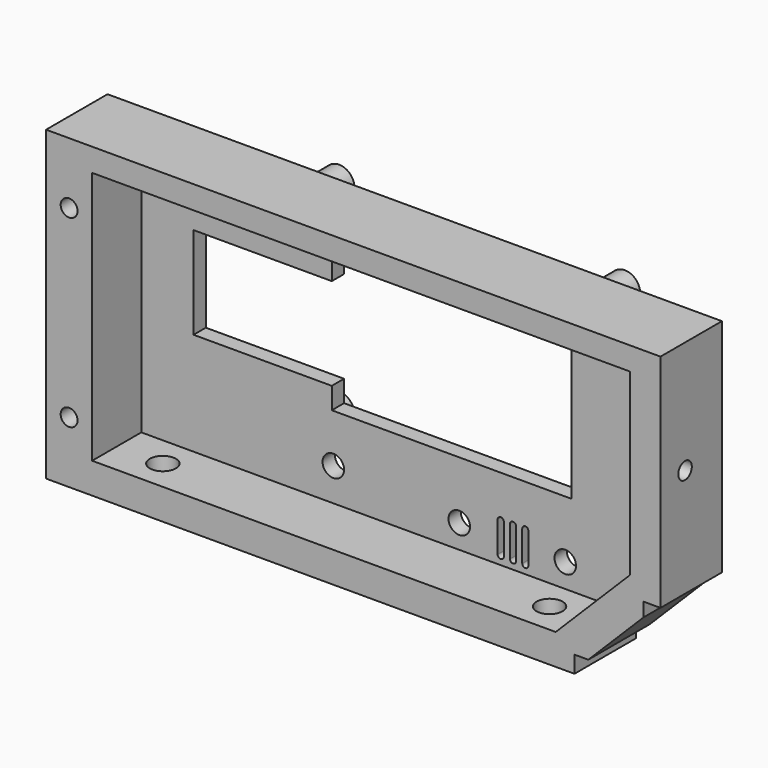
from build123d import *

# Parameters (mm, degrees)
F1_DEPTH  = 25
F3_DEPTH  = 20
F4_R      = 3.5
F5_DEPTH  = 5
F6_R      = 5
F6_R_2    = 1.4
F7_DEPTH  = 8
F8_R      = 2.75
F9_DEPTH  = 10
F10_R     = 4.25
F11_DEPTH = 5
F12_R     = 2.75
F13_DEPTH = 10
F14_R     = 4.25
F15_DEPTH = 5
F16_R     = 2.75
F17_DEPTH = 25


with BuildPart() as f1:
    # F0 (on Front) → F1 (new body)
    with BuildSketch(Plane.XZ):
        Polygon((200, 0), (0, 0), (0, -100), (172, -100), (172, -94.5), (176.5, -94.5), (194.5, -76.5), (194.5, -72), (200, -72), align=None)
    extrude(amount=F1_DEPTH)

    # F2 (on face) → F3 (cut)
    with BuildSketch(Plane.XZ.offset(25)):
        Polygon((190, -7.5), (15, -7.5), (15, -90), (165.893398, -90), (190, -65.893398), align=None)
    extrude(amount=-F3_DEPTH, mode=Mode.SUBTRACT)

    # F4 (on face) → F5 (cut, through all)
    with BuildSketch(Plane.XZ.offset(5)):
        Polygon((155, -12.5), (77, -12.5), (77, -26.5), (32, -26.5), (32, -56.5), (77, -56.5), (77, -63.5), (155, -63.5), align=None)
        with Locations((153, -82.25)):
            Circle(F4_R)
        with Locations((118.5, -82.25)):
            Circle(F4_R)
        with BuildLine():
            Line((133, -82.25), (133, -77.25))
            ThreePointArc((133, -77.25), (132, -76.25), (131, -77.25))
            Line((131, -77.25), (131, -82.25))
            Line((131, -82.25), (131, -87.25))
            ThreePointArc((131, -87.25), (132, -88.25), (133, -87.25))
            Line((133, -87.25), (133, -82.25))
        make_face()
        with BuildLine():
            ThreePointArc((137, -77.25), (136, -76.25), (135, -77.25))
            Line((135, -77.25), (135, -82.25))
            Line((135, -82.25), (135, -87.25))
            ThreePointArc((135, -87.25), (136, -88.25), (137, -87.25))
            Line((137, -87.25), (137, -82.25))
            Line((137, -82.25), (137, -77.25))
        make_face()
        with BuildLine():
            ThreePointArc((141, -77.25), (140, -76.25), (139, -77.25))
            Line((139, -77.25), (139, -82.25))
            Line((139, -82.25), (139, -87.25))
            ThreePointArc((139, -87.25), (140, -88.25), (141, -87.25))
            Line((141, -87.25), (141, -82.25))
            Line((141, -82.25), (141, -77.25))
        make_face()
        with Locations((77.5, -79.25)):
            Circle(F4_R)
    extrude(amount=-F5_DEPTH, mode=Mode.SUBTRACT)

    # F6 (on face) → F7 (join)
    with BuildSketch(Plane(origin=(0, 0, 0), x_dir=(-1, 0, 0), z_dir=(0, 1, 0))):
        with Locations((-69, -6)):
            Circle(F6_R)
        with Locations((-69, -6)):
            Circle(F6_R_2, mode=Mode.SUBTRACT)
        with Locations((-162, -6)):
            Circle(F6_R)
        with Locations((-162, -6)):
            Circle(F6_R_2, mode=Mode.SUBTRACT)
        with Locations((-162, -71)):
            Circle(F6_R)
        with Locations((-162, -71)):
            Circle(F6_R_2, mode=Mode.SUBTRACT)
        with Locations((-69, -71)):
            Circle(F6_R)
        with Locations((-69, -71)):
            Circle(F6_R_2, mode=Mode.SUBTRACT)
    extrude(amount=F7_DEPTH)

    # F8 (on face) → F9 (cut, through all)
    with BuildSketch(Plane(origin=(190, 0, 0), x_dir=(0, -1, 0), z_dir=(-1, 0, 0))):
        with Locations((15, -36.696699)):
            Circle(F8_R)
    extrude(amount=-F9_DEPTH, mode=Mode.SUBTRACT)

    # F10 (on face) → F11 (cut)
    with BuildSketch(Plane(origin=(190, 0, 0), x_dir=(0, -1, 0), z_dir=(-1, 0, 0))):
        with Locations((15, -36.696699)):
            Circle(F10_R)
    extrude(amount=-F11_DEPTH, mode=Mode.SUBTRACT)

    # F12 (on face) → F13 (cut, through all)
    with BuildSketch(Plane.XY.offset(-90)):
        with Locations((30, -15)):
            Circle(F12_R)
        with Locations((155.893398, -15)):
            Circle(F12_R)
    extrude(amount=-F13_DEPTH, mode=Mode.SUBTRACT)

    # F14 (on face) → F15 (cut)
    with BuildSketch(Plane.XY.offset(-90)):
        with Locations((30, -15)):
            Circle(F14_R)
        with Locations((155.893398, -15)):
            Circle(F14_R)
    extrude(amount=-F15_DEPTH, mode=Mode.SUBTRACT)

    # F16 (on face) → F17 (cut, through all)
    with BuildSketch(Plane.XZ.offset(25)):
        with Locations((7.5, -20)):
            Circle(F16_R)
        with Locations((7.5, -80)):
            Circle(F16_R)
    extrude(amount=-F17_DEPTH, mode=Mode.SUBTRACT)


solid = f1.part
